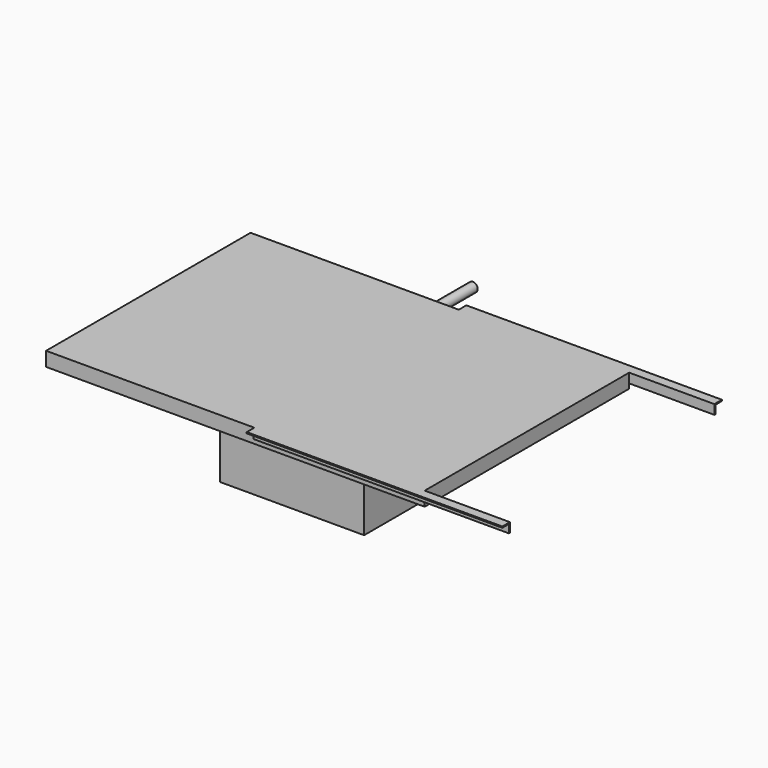
from build123d import *

# Parameters (mm, degrees)
F0_W          = 1016
F0_H          = 685.8
F1_DEPTH      = 38.1
F2_W          = 387.35
F2_H          = 463.55
F3_DEPTH      = 249.2375
F4_R          = 12.7
F5_DEPTH      = 127
F7_DEPTH      = 228.6
F7_DEPTH_BACK = 457.2


with BuildPart() as f1:
    # F0 (on Top) → F1 (new body)
    with BuildSketch(Plane.XY):
        with Locations((508, -342.9)):
            Rectangle(F0_W, F0_H)
    extrude(amount=F1_DEPTH)

    # F2 (on face) → F3 (join)
    with BuildSketch(Plane(origin=(0, 0, 0), x_dir=(1, 0, 0), z_dir=(0, 0, -1))):
        with Locations((504.825, 260.35)):
            Rectangle(F2_W, F2_H)
    extrude(amount=F3_DEPTH)

    # F4 (on face) → F5 (join)
    with BuildSketch(Plane(origin=(0, 0, 0), x_dir=(-1, 0, 0), z_dir=(0, 1, 0))):
        with Locations((-495.3, 19.05)):
            Circle(F4_R)
    extrude(amount=F5_DEPTH)

    # F6 (on face) → F7 (join, two sides)
    with BuildSketch(Plane.YZ.offset(1016)) as f7_sk:
        Polygon((-685.8, 12.7), (-685.8, 38.1), (-711.2, 38.1), (-711.2, 34.925), (-688.975, 34.925), (-688.975, 12.7), align=None)
        Polygon((25.4, 38.1), (0, 38.1), (0, 12.7), (3.175, 12.7), (3.175, 34.925), (25.4, 34.925), align=None)
    extrude(amount=F7_DEPTH)
    extrude(f7_sk.sketch, amount=-F7_DEPTH_BACK)


solid = f1.part
